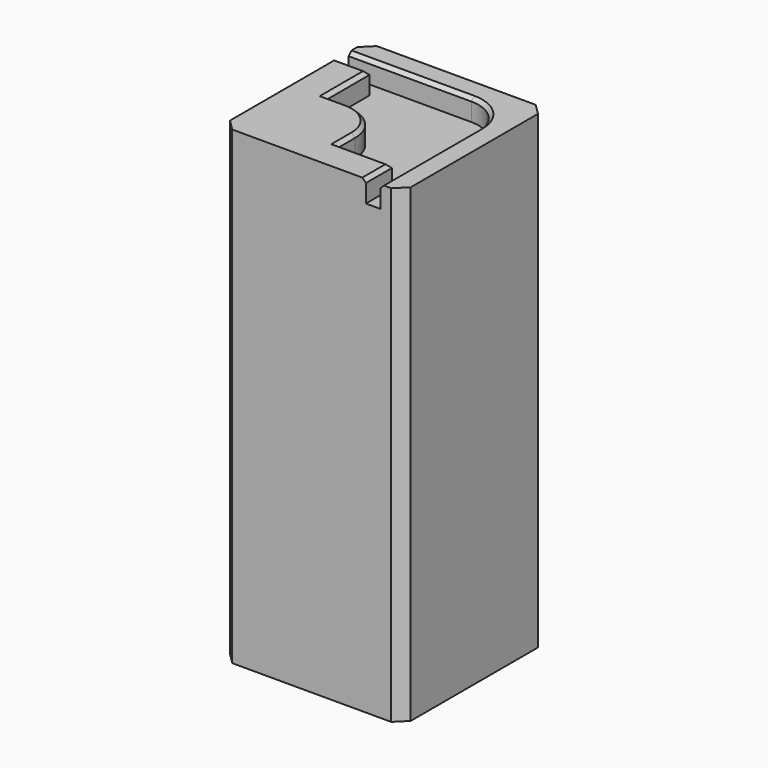
from build123d import *

# Parameters (mm, degrees)
SKETCH029_W     = 50
SKETCH029_H     = 50
PAD017_DEPTH    = 130
POCKET007_DEPTH = 6
CHAMFER006_SIZE = 1
CHAMFER007_SIZE = 3


with BuildPart() as part:
    # Sketch029 → Pad017 (new body)
    with BuildSketch(Plane.XY):
        Rectangle(SKETCH029_W, SKETCH029_H)
    extrude(amount=PAD017_DEPTH)

    # Sketch030 (on DatumPlane) → Pocket007 (cut)
    with BuildSketch(Plane.XY.offset(130)):
        with BuildLine():
            Line((-31, 19), (9, 19))
            ThreePointArc((19, 9), (16.071068, 16.071068), (9, 19))
            Line((19, 9), (19, -31))
            Line((15, -31), (19, -31))
            Line((15, -16), (15, -31))
            Line((15, -16), (0, -16))
            Line((0, -16), (0, -10))
            ThreePointArc((0, -10), (-2.928932, -2.928932), (-10, 0))
            Line((-10, 0), (-16, 0))
            Line((-16, 0), (-16, 15))
            Line((-16, 15), (-31, 15))
            Line((-31, 15), (-31, 19))
        make_face()
    extrude(amount=-POCKET007_DEPTH, mode=Mode.SUBTRACT)

    # Chamfer006
    chamfer006_edges = [part.edges().sort_by_distance(p)[0] for p in [
        (19, -8, 130),
        (-16, 7.5, 130),
        (-13, 0, 130),
        (7.5, -16, 130),
        (15, -20.5, 130),
        (-20.5, 15, 130),
    ]]
    chamfer(chamfer006_edges, length=CHAMFER006_SIZE)

    # Chamfer007
    chamfer007_edges = [part.edges().sort_by_distance(p)[0] for p in [
        (25, -25, 65),
        (-25, -25, 65),
        (25, 25, 65),
        (-25, 25, 65),
    ]]
    chamfer(chamfer007_edges, length=CHAMFER007_SIZE)


solid = part.part
